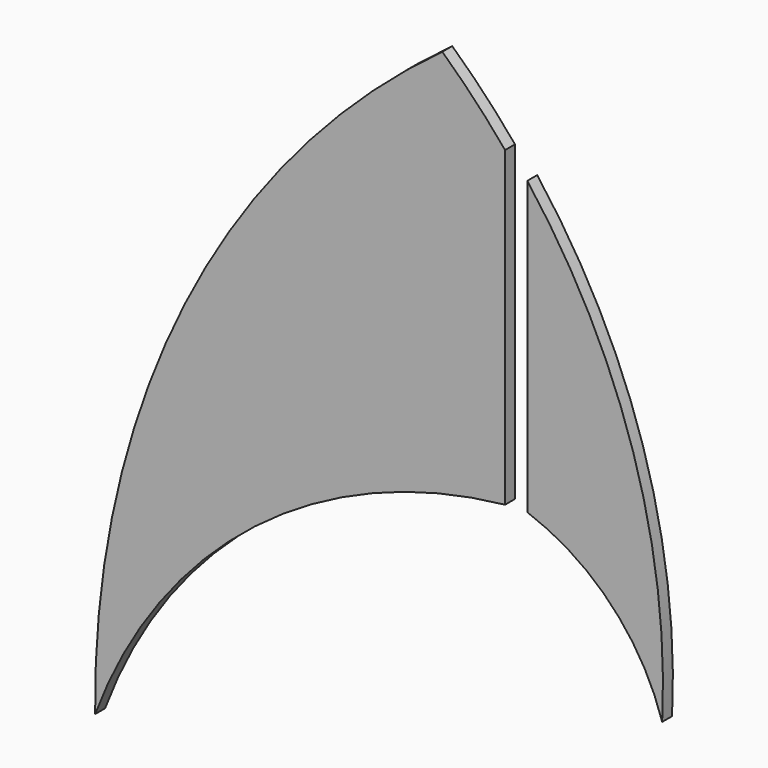
from build123d import *

# Parameters (mm, degrees)
F1_DEPTH = 2.54


with BuildPart() as f1:
    # F0 (on Front) → F1 (new body)
    with BuildSketch(Plane.XZ):
        with BuildLine():
            ThreePointArc((-15.565039, 100.825971), (-21.766331, 107.828152), (-28.438459, 114.383247))
            ThreePointArc((-28.438459, 114.383247), (-81.309588, 51.599313), (-99.670086, -28.401129))
            ThreePointArc((-99.670086, -28.401129), (-66.897997, 16.160016), (-15.565039, 36.766636))
            Line((-15.565039, 36.766636), (-15.565039, 100.825971))
        make_face()
        with BuildLine():
            ThreePointArc((-11.007795, 36.894951), (6.254248, 25.740046), (16.664833, 8.019162))
            ThreePointArc((16.664833, 8.019162), (10.721414, 54.845831), (-11.007795, 96.749322))
            Line((-11.007795, 96.749322), (-11.007795, 36.894951))
        make_face()
    extrude(amount=F1_DEPTH)


solid = f1.part
